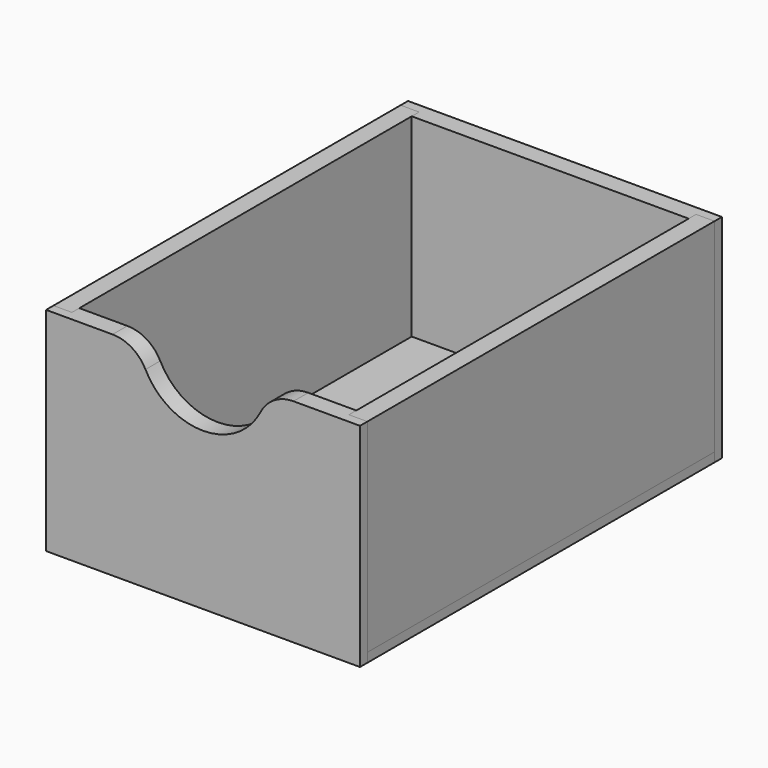
from build123d import *

# Parameters (mm, degrees)
F0_W      = 85
F0_H      = 57.5
F1_DEPTH  = 5
F2_W      = 5
F2_H      = 52.5
F2_H_2    = 52.6163306832
F3_DEPTH  = 2.5
F4_W      = 85
F4_H      = 117.5
F5_DEPTH  = 5
F6_W      = 5
F6_H      = 117.5
F7_DEPTH  = 2.5
F8_W      = 117.5
F8_H      = 55
F9_DEPTH  = 5
F11_W     = 85
F11_H     = 57.5
F12_DEPTH = 2.5
F13_W     = 75
F13_H     = 52.5
F14_DEPTH = 2.5
F15_R     = 17.5
F16_DEPTH = 25
F17_R     = 10


with BuildPart() as f1:
    # F0 (on Front) → F1 (new body)
    with BuildSketch(Plane.XZ):
        with Locations((42.5, 28.75)):
            Rectangle(F0_W, F0_H)
    extrude(amount=F1_DEPTH)

    # F2 (on face) → F3 (cut)
    with BuildSketch(Plane.XZ):
        Polygon((0, 0), (85, 0), (85, 5), (80, 5), (5, 5), (0, 5), align=None)
        with Locations((82.5, 31.25)):
            Rectangle(F2_W, F2_H)
        with Locations((2.5, 31.3081653416)):
            Rectangle(F2_W, F2_H_2)
    extrude(amount=F3_DEPTH, mode=Mode.SUBTRACT)

    # F15 (on face) → F16 (cut)
    with BuildSketch(Plane.XZ.offset(5)):
        with Locations((42.5, 60)):
            Circle(F15_R)
    extrude(amount=-F16_DEPTH, mode=Mode.SUBTRACT)

    # F17
    f17_edges = [f1.edges().sort_by_distance(p)[0] for p in [
        (25.179492, -2.5, 57.5),
        (59.820508, -2.5, 57.5),
    ]]
    fillet(f17_edges, radius=F17_R)


with BuildPart() as f5:
    # F4 (on face) → F5 (new body)
    with BuildSketch(Plane(origin=(0, 0, 0), x_dir=(1, 0, 0), z_dir=(0, 0, -1))):
        with Locations((42.5, -56.25)):
            Rectangle(F4_W, F4_H)
    extrude(amount=-F5_DEPTH)

    # F6 (on face) → F7 (cut)
    with BuildSketch(Plane.XY.offset(5)):
        with Locations((2.5, 56.25)):
            Rectangle(F6_W, F6_H)
        with Locations((82.5, 56.25)):
            Rectangle(F6_W, F6_H)
    extrude(amount=-F7_DEPTH, mode=Mode.SUBTRACT)


with BuildPart() as f9:
    # F8 (on face) → F9 (new body)
    with BuildSketch(Plane(origin=(0, 0, 0), x_dir=(0, -1, 0), z_dir=(-1, 0, 0))):
        with Locations((-56.25, 30)):
            Rectangle(F8_W, F8_H)
    extrude(amount=-F9_DEPTH)


with BuildPart() as f10_1:
    # F10: copy of F9
    add(f9.part.moved(Location((80, 0, 0))))


with BuildPart() as f12:
    # F11 (on face) → F12 (new body)
    with BuildSketch(Plane(origin=(0, 115, 0), x_dir=(-1, 0, 0), z_dir=(0, 1, 0))):
        with Locations((-42.5, 28.75)):
            Rectangle(F11_W, F11_H)
    extrude(amount=F12_DEPTH)

    # F13 (on face) → F14 (join)
    with BuildSketch(Plane.XZ.offset(-115)):
        with Locations((42.5, 31.25)):
            Rectangle(F13_W, F13_H)
    extrude(amount=F14_DEPTH)


solid = Compound([f1.part, f5.part, f9.part, f10_1.part, f12.part])
